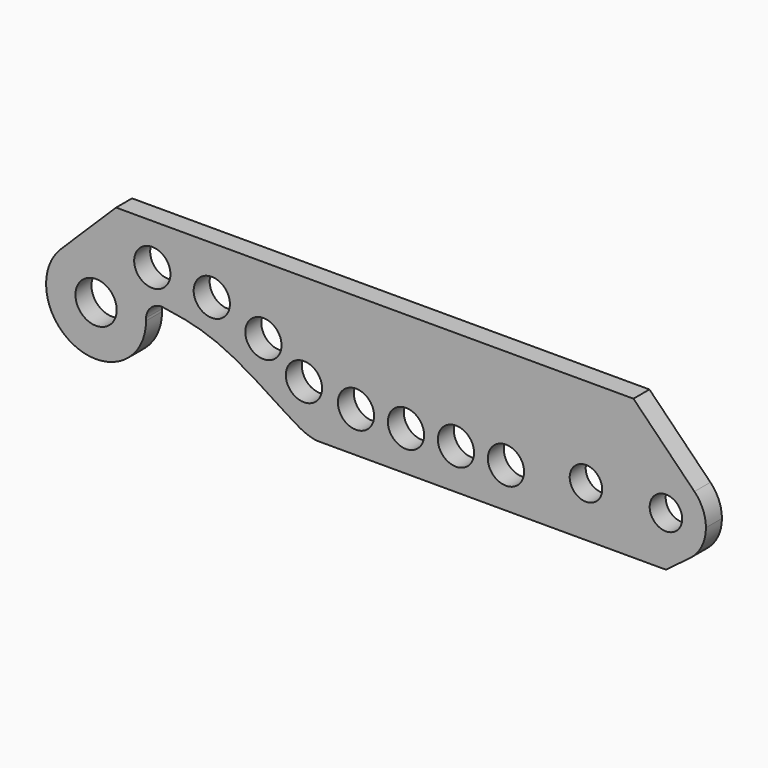
from build123d import *

# Parameters (mm, degrees)
F0_W      = 419.1
F0_H      = 88.9
F0_R      = 13.096875
F0_R_2    = 11.509375
F0_R_3    = 10.31875
F1_DEPTH  = 12.7
F2_R      = 11.509375
F3_DEPTH  = 12.701
F5_DEPTH  = 12.701
F7_DEPTH  = 12.7010001
F9_DEPTH  = 12.7
F10_R     = 13.096875
F10_R_2   = 11.509375
F10_R_3   = 7.9375
F11_DEPTH = 25.4010001


with BuildPart() as f1:
    # F0 (on Front) → F1 (new body)
    with BuildSketch(Plane.XZ):
        Rectangle(F0_W, F0_H)
        with Locations((-177.8, -12.7)):
            Circle(F0_R, mode=Mode.SUBTRACT)
        with Locations((-12.7, -18.7318846583)):
            Circle(F0_R_2, mode=Mode.SUBTRACT)
        with Locations((19.05, -19.1783625633)):
            Circle(F0_R_2, mode=Mode.SUBTRACT)
        with Locations((50.8, -18.7318846583)):
            Circle(F0_R_2, mode=Mode.SUBTRACT)
        with Locations((82.55, -19.05)):
            Circle(F0_R_2, mode=Mode.SUBTRACT)
        with Locations((133.35, -12.7)):
            Circle(F0_R_3, mode=Mode.SUBTRACT)
        with Locations((184.15, -12.7)):
            Circle(F0_R_3, mode=Mode.SUBTRACT)
    extrude(amount=-F1_DEPTH)

    # F2 (on face) → F3 (cut, through all)
    with BuildSketch(Plane.XZ):
        with Locations((-142.08252, 18.4232164174)):
            Circle(F2_R)
        with Locations((-104.306563735, 14.0248946846)):
            Circle(F2_R)
        with Locations((-71.5190842748, 1.6296281246)):
            Circle(F2_R)
        with Locations((-45.7596568011, -14.1053809535)):
            Circle(F2_R)
    extrude(amount=-F3_DEPTH, mode=Mode.SUBTRACT)

    # F4 (on face) → F5 (cut, through all)
    with BuildSketch(Plane.XZ):
        with BuildLine():
            ThreePointArc((-209.55, -12.7), (-207.0936907923, -0.4549120148), (-200.1048233219, 9.8955162937))
            Line((-200.1048233219, 9.8955162937), (-165.1, 44.45))
            Line((-165.1, 44.45), (-209.55, 44.45))
            Line((-209.55, 44.45), (-209.55, -12.7))
        make_face()
        with BuildLine():
            Line((-209.55, -44.45), (-177.8, -44.45))
            ThreePointArc((-177.8, -44.45), (-200.2506403027, -35.1506403027), (-209.55, -12.7))
            Line((-209.55, -12.7), (-209.55, -44.45))
        make_face()
        with BuildLine():
            ThreePointArc((-146.0861882684, -11.1845312756), (-146.0590483564, -11.9420496313), (-146.05, -12.7))
            ThreePointArc((-146.05, -12.7), (-155.3493596973, -35.1506403027), (-177.8, -44.45))
            Line((-177.8, -44.45), (-38.1, -44.45))
            add(Edge.make_bspline(
                [(-135.731991463, -1.5425124657), (-123.0853934374, -3.2529361125), (-97.8098704079, -7.8915227069), (-55.1757360667, -37.2664877617), (-44.6494842281, -43.1637651569), (-38.1, -44.45)],
                knots=[0, 0, 0, 0, 0.3555356426, 0.7550234425, 1, 1, 1, 1], degree=3))
            ThreePointArc((-135.731991463, -1.5425124657), (-142.8632378904, -4.2650367263), (-146.0861882684, -11.1845312756))
        make_face()
    extrude(amount=-F5_DEPTH, mode=Mode.SUBTRACT)

    # F6 (on face) → F7 (cut, through all)
    with BuildSketch(Plane.XZ):
        with BuildLine():
            Line((209.55, 44.45), (163.5125, 44.45))
            Line((163.5125, 44.45), (202.2463189928, 5.1236707474))
            ThreePointArc((202.2463189928, 5.1236707474), (207.6532604037, -3.0689694011), (209.55, -12.6999998198))
            Line((209.55, -12.6999998198), (209.55, 44.45))
        make_face()
        with BuildLine():
            Line((209.55, -44.45), (209.55, -12.6999998198))
            ThreePointArc((209.55, -12.6999998198), (206.8684506917, -24.0592252451), (199.39, -33.02))
            Line((199.39, -33.02), (184.15, -44.45))
            Line((184.15, -44.45), (209.55, -44.45))
        make_face()
    extrude(amount=-F7_DEPTH, mode=Mode.SUBTRACT)


with BuildPart() as f9:
    # F8 (on Front) → F9 (new body)
    with BuildSketch(Plane.XZ):
        with BuildLine():
            Line((180.975, 31.75), (-180.975, 31.75))
            ThreePointArc((-180.975, 31.75), (-212.725, 0), (-180.975, -31.75))
            Line((-180.975, -31.75), (180.975, -31.75))
            ThreePointArc((180.975, -31.75), (212.725, 0), (180.975, 31.75))
        make_face()
    extrude(amount=F9_DEPTH)

    # F10 (on face) → F11 (cut, through all)
    with BuildSketch(Plane.XZ.offset(12.7)):
        with Locations((-180.975, 0)):
            Circle(F10_R)
        with Locations((-133.35, 0)):
            Circle(F10_R_2)
        with Locations((-107.95, 6.35)):
            Circle(F10_R_2)
        with Locations((-82.55, 7.0877922699)):
            Circle(F10_R_2)
        with Locations((-57.15, 7.0877922699)):
            Circle(F10_R_2)
        with Locations((104.7790011828, 0.7808740327)):
            Circle(F10_R_3)
        with Locations((180.975, 0)):
            Circle(F10_R_3)
    extrude(amount=-F11_DEPTH, mode=Mode.SUBTRACT)


solid = f1.part
